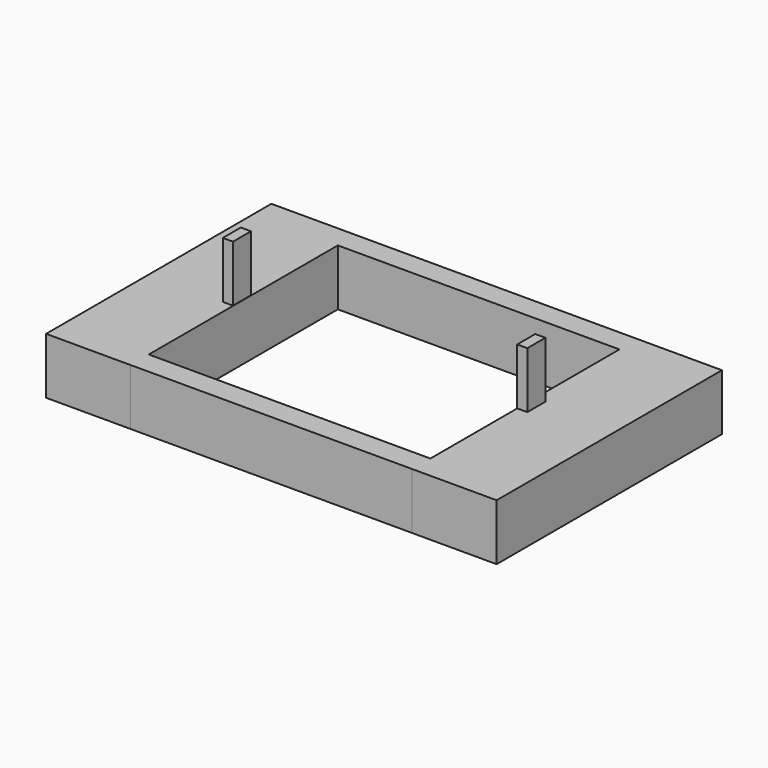
from build123d import *

# Parameters (mm, degrees)
F0_W     = 127
F0_H     = 10.16
F0_H_2   = 10.284107
F1_DEPTH = 25.4
F2_W     = 4.572
F2_H     = 10.16
F3_DEPTH = 50.8
F4_W     = 4.572
F4_H     = 10.16
F5_DEPTH = 25.4


with BuildPart() as f1:
    # F0 (on Top) → F1 (new body)
    with BuildSketch(Plane.XY):
        Polygon((116.738255, 63.828293), (78.638255, 63.828293), (78.638255, 53.668293), (78.638255, -52.8876), (78.638255, -63.171707), (116.738255, -63.171707), align=None)
        with Locations((15.138255, 58.748293)):
            Rectangle(F0_W, F0_H)
        Polygon((-48.361745, 53.668293), (-48.361745, 63.828293), (-86.461745, 63.828293), (-86.461745, -63.171707), (-48.361745, -63.171707), (-48.361745, -52.8876), align=None)
        with Locations((15.138255, -58.029653)):
            Rectangle(F0_W, F0_H_2)
    extrude(amount=F1_DEPTH)

    # F2 (on Top) → F3 (join)
    with BuildSketch(Plane.XY):
        with Locations((-50.779041, -0.207529)):
            Rectangle(F2_W, F2_H)
    extrude(amount=F3_DEPTH)

    # F4 (on face) → F5 (join)
    with BuildSketch(Plane.XY.offset(25.4)):
        with Locations((80.924255, 1.138359)):
            Rectangle(F4_W, F4_H)
    extrude(amount=F5_DEPTH)


solid = f1.part
